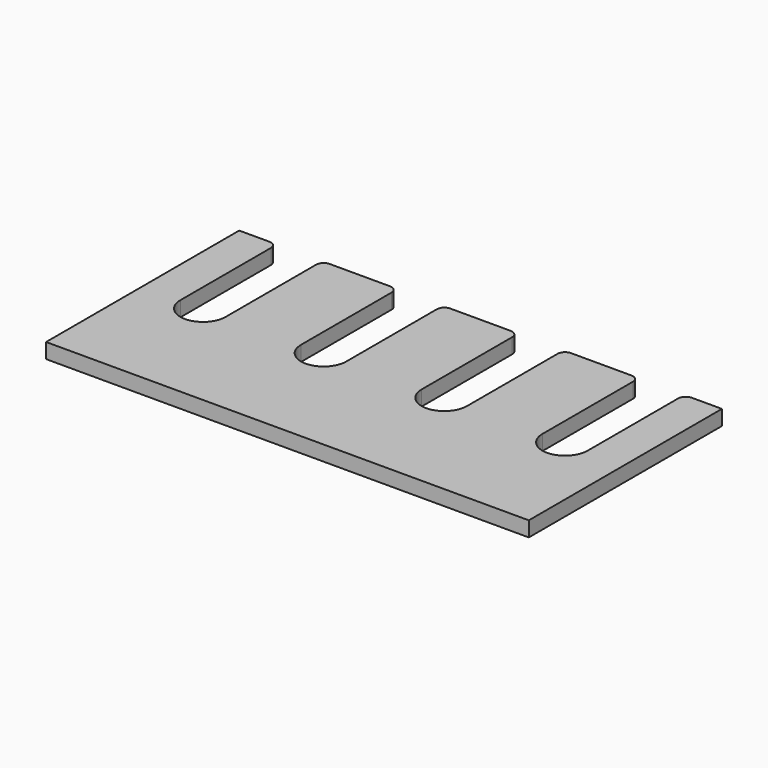
from build123d import *

# Parameters (mm, degrees)
F1_DEPTH = 12.7


with BuildPart() as f1:
    # F0 (on Top) → F1 (new body)
    with BuildSketch(Plane.XY):
        with BuildLine():
            Line((0, 203.2), (0, 0))
            Line((0, 0), (406.4, 0))
            Line((406.4, 0), (406.4, 203.2))
            Line((406.4, 203.2), (381, 203.2))
            ThreePointArc((381, 203.2), (376.509872, 201.340128), (374.65, 196.85))
            Line((374.65, 196.85), (374.65, 101.6))
            ThreePointArc((374.65, 101.6), (369.070384, 88.129616), (355.6, 82.55))
            ThreePointArc((355.6, 82.55), (342.129616, 88.129616), (336.55, 101.6))
            Line((336.55, 101.6), (336.55, 196.85))
            ThreePointArc((336.55, 196.85), (334.690128, 201.340128), (330.2, 203.2))
            Line((330.2, 203.2), (279.4, 203.2))
            ThreePointArc((279.4, 203.2), (274.909872, 201.340128), (273.05, 196.85))
            Line((273.05, 196.85), (273.05, 101.6))
            ThreePointArc((273.05, 101.6), (267.470384, 88.129616), (254, 82.55))
            ThreePointArc((254, 82.55), (240.529616, 88.129616), (234.95, 101.6))
            Line((234.95, 101.6), (234.95, 196.85))
            ThreePointArc((234.95, 196.85), (233.090128, 201.340128), (228.6, 203.2))
            Line((228.6, 203.2), (177.8, 203.2))
            ThreePointArc((177.8, 203.2), (173.309872, 201.340128), (171.45, 196.85))
            Line((171.45, 196.85), (171.45, 101.6))
            ThreePointArc((171.45, 101.6), (165.870384, 88.129616), (152.4, 82.55))
            ThreePointArc((152.4, 82.55), (138.929616, 88.129616), (133.35, 101.6))
            Line((133.35, 101.6), (133.35, 196.85))
            ThreePointArc((133.35, 196.85), (131.490128, 201.340128), (127, 203.2))
            Line((127, 203.2), (76.2, 203.2))
            ThreePointArc((76.2, 203.2), (71.709872, 201.340128), (69.85, 196.85))
            Line((69.85, 196.85), (69.85, 101.6))
            ThreePointArc((69.85, 101.6), (64.270384, 88.129616), (50.8, 82.55))
            ThreePointArc((50.8, 82.55), (37.329616, 88.129616), (31.75, 101.6))
            Line((31.75, 101.6), (31.75, 196.85))
            ThreePointArc((31.75, 196.85), (29.890128, 201.340128), (25.4, 203.2))
            Line((25.4, 203.2), (0, 203.2))
        make_face()
    extrude(amount=F1_DEPTH)


solid = f1.part
